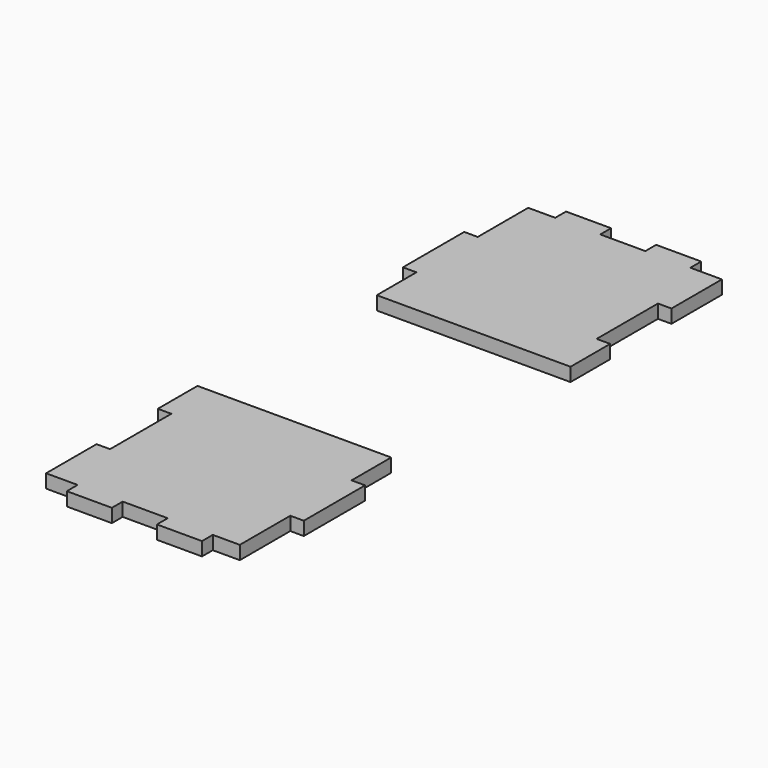
from build123d import *

# Parameters (mm, degrees)
RECTANGLE072_AS_DRAWN_W                 = 8
RECTANGLE072_AS_DRAWN_H                 = 3
EXTRUDE082_DEPTH                        = 3
EXTRUDE082_ONTO_RECTANGLE072_ROLL_ANGLE = 90
RECTANGLE071_AS_DRAWN_W                 = 10
RECTANGLE071_AS_DRAWN_H                 = 3
EXTRUDE081_DEPTH                        = 3
EXTRUDE081_ONTO_RECTANGLE071_ROLL_ANGLE = 90
RECTANGLE070_AS_DRAWN_W                 = 7
RECTANGLE070_AS_DRAWN_H                 = 3
EXTRUDE080_DEPTH                        = 3
EXTRUDE080_ONTO_RECTANGLE070_ROLL_ANGLE = 90
FUSION060_PLACEMENT_ANGLE               = 180
RECTANGLE065_AS_DRAWN_W                 = 8
RECTANGLE065_AS_DRAWN_H                 = 3
EXTRUDE075_DEPTH                        = 3
EXTRUDE075_ONTO_RECTANGLE065_ROLL_ANGLE = 90
RECTANGLE064_AS_DRAWN_W                 = 10
RECTANGLE064_AS_DRAWN_H                 = 3
EXTRUDE074_DEPTH                        = 3
EXTRUDE074_ONTO_RECTANGLE064_ROLL_ANGLE = 90
RECTANGLE063_AS_DRAWN_W                 = 7
RECTANGLE063_AS_DRAWN_H                 = 3
EXTRUDE073_DEPTH                        = 3
EXTRUDE073_ONTO_RECTANGLE063_ROLL_ANGLE = 90
RECTANGLE051_W                          = 17
RECTANGLE051_H                          = 3
EXTRUDE061_DEPTH                        = 3
RECTANGLE052_W                          = 17
RECTANGLE052_H                          = 3
EXTRUDE062_DEPTH                        = 3
RECTANGLE053_W                          = 17
RECTANGLE053_H                          = 3
EXTRUDE063_DEPTH                        = 3
RECTANGLE050_W                          = 17
RECTANGLE050_H                          = 3
EXTRUDE060_DEPTH                        = 3
RECTANGLE055_W                          = 17
RECTANGLE055_H                          = 3
EXTRUDE065_DEPTH                        = 3
RECTANGLE056_W                          = 17
RECTANGLE056_H                          = 3
EXTRUDE066_DEPTH                        = 3
RECTANGLE057_W                          = 17
RECTANGLE057_H                          = 3
EXTRUDE067_DEPTH                        = 3
RECTANGLE054_W                          = 17
RECTANGLE054_H                          = 3
EXTRUDE064_DEPTH                        = 3
BOX019_W                                = 46
BOX019_H                                = 45
BOX019_DEPTH                            = 3
BOX020_W                                = 46
BOX020_H                                = 45
BOX020_DEPTH                            = 3
BOX008_W                                = 46
BOX008_H                                = 45
BOX008_DEPTH                            = 3
BOX009_W                                = 46
BOX009_H                                = 45
BOX009_DEPTH                            = 3


with BuildPart() as extrude082:
    # Rectangle072 as drawn → Extrude082 (new)
    with BuildSketch(Plane.XY):
        with Locations((-4, -1.5)):
            Rectangle(RECTANGLE072_AS_DRAWN_W, RECTANGLE072_AS_DRAWN_H)
    extrude(amount=-EXTRUDE082_DEPTH)


with BuildPart() as extrude082_1:
    # Extrude082 onto Rectangle072 roll: moved
    add(extrude082.part.rotate(Axis((0, 0, 0), (1, 0, 0)), EXTRUDE082_ONTO_RECTANGLE072_ROLL_ANGLE))


with BuildPart() as extrude082_2:
    # Extrude082 onto Rectangle072 placement: moved
    add(extrude082_1.part.moved(Location((-16, -68, 55))))


with BuildPart() as extrude081:
    # Rectangle071 as drawn → Extrude081 (new)
    with BuildSketch(Plane.XY):
        with Locations((-5, -1.5)):
            Rectangle(RECTANGLE071_AS_DRAWN_W, RECTANGLE071_AS_DRAWN_H)
    extrude(amount=-EXTRUDE081_DEPTH)


with BuildPart() as extrude081_1:
    # Extrude081 onto Rectangle071 roll: moved
    add(extrude081.part.rotate(Axis((0, 0, 0), (1, 0, 0)), EXTRUDE081_ONTO_RECTANGLE071_ROLL_ANGLE))


with BuildPart() as extrude081_2:
    # Extrude081 onto Rectangle071 placement: moved
    add(extrude081_1.part.moved(Location((4, -68, 55))))


with BuildPart() as finger_joints_aa002:
    # Rectangle070 as drawn → Extrude080 (new)
    with BuildSketch(Plane.XY):
        with Locations((-3.5, -1.5)):
            Rectangle(RECTANGLE070_AS_DRAWN_W, RECTANGLE070_AS_DRAWN_H)
    extrude(amount=-EXTRUDE080_DEPTH)


with BuildPart() as finger_joints_aa002_1:
    # Extrude080 onto Rectangle070 roll: moved
    add(finger_joints_aa002.part.rotate(Axis((0, 0, 0), (1, 0, 0)), EXTRUDE080_ONTO_RECTANGLE070_ROLL_ANGLE))


with BuildPart() as finger_joints_aa002_2:
    # Extrude080 onto Rectangle070 placement: moved
    add(finger_joints_aa002_1.part.moved(Location((21, -68, 55))))

    # Fusion060: union Extrude082, Extrude081
    add(extrude082_2.part)
    add(extrude081_2.part)


with BuildPart() as finger_joints_aa002_3:
    # Fusion060 placement: moved
    add(finger_joints_aa002_2.part.rotate(Axis((0, 0, 0), (0, 0, 1)), FUSION060_PLACEMENT_ANGLE))


with BuildPart() as extrude075:
    # Rectangle065 as drawn → Extrude075 (new)
    with BuildSketch(Plane.XY):
        with Locations((-4, -1.5)):
            Rectangle(RECTANGLE065_AS_DRAWN_W, RECTANGLE065_AS_DRAWN_H)
    extrude(amount=-EXTRUDE075_DEPTH)


with BuildPart() as extrude075_1:
    # Extrude075 onto Rectangle065 roll: moved
    add(extrude075.part.rotate(Axis((0, 0, 0), (1, 0, 0)), EXTRUDE075_ONTO_RECTANGLE065_ROLL_ANGLE))


with BuildPart() as extrude075_2:
    # Extrude075 onto Rectangle065 placement: moved
    add(extrude075_1.part.moved(Location((-16, -68, 55))))


with BuildPart() as extrude074:
    # Rectangle064 as drawn → Extrude074 (new)
    with BuildSketch(Plane.XY):
        with Locations((-5, -1.5)):
            Rectangle(RECTANGLE064_AS_DRAWN_W, RECTANGLE064_AS_DRAWN_H)
    extrude(amount=-EXTRUDE074_DEPTH)


with BuildPart() as extrude074_1:
    # Extrude074 onto Rectangle064 roll: moved
    add(extrude074.part.rotate(Axis((0, 0, 0), (1, 0, 0)), EXTRUDE074_ONTO_RECTANGLE064_ROLL_ANGLE))


with BuildPart() as extrude074_2:
    # Extrude074 onto Rectangle064 placement: moved
    add(extrude074_1.part.moved(Location((4, -68, 55))))


with BuildPart() as fusion061:
    # Rectangle063 as drawn → Extrude073 (new)
    with BuildSketch(Plane.XY):
        with Locations((-3.5, -1.5)):
            Rectangle(RECTANGLE063_AS_DRAWN_W, RECTANGLE063_AS_DRAWN_H)
    extrude(amount=-EXTRUDE073_DEPTH)


with BuildPart() as fusion061_1:
    # Extrude073 onto Rectangle063 roll: moved
    add(fusion061.part.rotate(Axis((0, 0, 0), (1, 0, 0)), EXTRUDE073_ONTO_RECTANGLE063_ROLL_ANGLE))


with BuildPart() as fusion061_2:
    # Extrude073 onto Rectangle063 placement: moved
    add(fusion061_1.part.moved(Location((21, -68, 55))))

    # Fusion056: union Extrude075, Extrude074
    add(extrude075_2.part)
    add(extrude074_2.part)

    # Fusion061: union Finger joints aa002
    add(finger_joints_aa002_3.part)


with BuildPart() as extrude061:
    # Rectangle051 → Extrude061 (new body)
    with BuildSketch(Plane(origin=(24, -34, 88), x_dir=(0, -1, 0), z_dir=(1, 0, 0))):
        with Locations((-8.5, 1.5)):
            Rectangle(RECTANGLE051_W, RECTANGLE051_H)
    extrude(amount=-EXTRUDE061_DEPTH)


with BuildPart() as extrude062:
    # Rectangle052 → Extrude062 (new body)
    with BuildSketch(Plane(origin=(24, 0, 88), x_dir=(0, -1, 0), z_dir=(1, 0, 0))):
        with Locations((-8.5, 1.5)):
            Rectangle(RECTANGLE052_W, RECTANGLE052_H)
    extrude(amount=-EXTRUDE062_DEPTH)


with BuildPart() as extrude063:
    # Rectangle053 → Extrude063 (new body)
    with BuildSketch(Plane(origin=(24, 34, 88), x_dir=(0, -1, 0), z_dir=(1, 0, 0))):
        with Locations((-8.5, 1.5)):
            Rectangle(RECTANGLE053_W, RECTANGLE053_H)
    extrude(amount=-EXTRUDE063_DEPTH)


with BuildPart() as finger_joints_a_front003:
    # Rectangle050 → Extrude060 (new body)
    with BuildSketch(Plane(origin=(24, -68, 88), x_dir=(0, -1, 0), z_dir=(1, 0, 0))):
        with Locations((-8.5, 1.5)):
            Rectangle(RECTANGLE050_W, RECTANGLE050_H)
    extrude(amount=-EXTRUDE060_DEPTH)

    # Fusion049: union Extrude061, Extrude062, Extrude063
    add(extrude061.part)
    add(extrude062.part)
    add(extrude063.part)


with BuildPart() as finger_joints_a_front003_1:
    # Fusion049 placement: moved
    add(finger_joints_a_front003.part.moved(Location((-1, 0, 0))))


with BuildPart() as extrude065:
    # Rectangle055 → Extrude065 (new body)
    with BuildSketch(Plane(origin=(24, -17, 88), x_dir=(0, -1, 0), z_dir=(1, 0, 0))):
        with Locations((-8.5, 1.5)):
            Rectangle(RECTANGLE055_W, RECTANGLE055_H)
    extrude(amount=-EXTRUDE065_DEPTH)


with BuildPart() as extrude066:
    # Rectangle056 → Extrude066 (new body)
    with BuildSketch(Plane(origin=(24, 17, 88), x_dir=(0, -1, 0), z_dir=(1, 0, 0))):
        with Locations((-8.5, 1.5)):
            Rectangle(RECTANGLE056_W, RECTANGLE056_H)
    extrude(amount=-EXTRUDE066_DEPTH)


with BuildPart() as extrude067:
    # Rectangle057 → Extrude067 (new body)
    with BuildSketch(Plane(origin=(24, 51, 88), x_dir=(0, -1, 0), z_dir=(1, 0, 0))):
        with Locations((-8.5, 1.5)):
            Rectangle(RECTANGLE057_W, RECTANGLE057_H)
    extrude(amount=-EXTRUDE067_DEPTH)


with BuildPart() as finger_joints_b003:
    # Rectangle054 → Extrude064 (new body)
    with BuildSketch(Plane(origin=(24, -51, 88), x_dir=(0, -1, 0), z_dir=(1, 0, 0))):
        with Locations((-8.5, 1.5)):
            Rectangle(RECTANGLE054_W, RECTANGLE054_H)
    extrude(amount=-EXTRUDE064_DEPTH)

    # Fusion050: union Extrude065, Extrude066, Extrude067
    add(extrude065.part)
    add(extrude066.part)
    add(extrude067.part)


with BuildPart() as finger_joints_b003_1:
    # Fusion050 placement: moved
    add(finger_joints_b003.part.moved(Location((-44, 0, 0))))

    # Fusion051: union Finger joints A front003
    add(finger_joints_a_front003_1.part)


with BuildPart() as finger_joints_b003_2:
    # Fusion051 placement: moved
    add(finger_joints_b003_1.part.moved(Location((0, 0, -33))))


with BuildPart() as obj1:
    # Box019 → Box019 (new body)
    with BuildSketch(Plane(origin=(-23, -68, 52), x_dir=(1, 0, 0), z_dir=(0, 0, 1))):
        with Locations((23, 22.5)):
            Rectangle(BOX019_W, BOX019_H)
    extrude(amount=BOX019_DEPTH)


with BuildPart() as common001:
    # Box020 → Box020 (new body)
    with BuildSketch(Plane(origin=(-23, 23, 52), x_dir=(1, 0, 0), z_dir=(0, 0, 1))):
        with Locations((23, 22.5)):
            Rectangle(BOX020_W, BOX020_H)
    extrude(amount=BOX020_DEPTH)

    # Fusion052: union obj1
    add(obj1.part)

    # Common001: intersect Finger joints B003
    add(finger_joints_b003_2.part, mode=Mode.INTERSECT)


with BuildPart() as obj2:
    # Box008 → Box008 (new body)
    with BuildSketch(Plane(origin=(-23, -68, 52), x_dir=(1, 0, 0), z_dir=(0, 0, 1))):
        with Locations((23, 22.5)):
            Rectangle(BOX008_W, BOX008_H)
    extrude(amount=BOX008_DEPTH)


with BuildPart() as carriage_base_with_all_tabs:
    # Box009 → Box009 (new body)
    with BuildSketch(Plane(origin=(-23, 23, 52), x_dir=(1, 0, 0), z_dir=(0, 0, 1))):
        with Locations((23, 22.5)):
            Rectangle(BOX009_W, BOX009_H)
    extrude(amount=BOX009_DEPTH)

    # Fusion047: union obj2
    add(obj2.part)

    # Cut025: cut Common001
    add(common001.part, mode=Mode.SUBTRACT)

    # Cut026: cut Fusion061
    add(fusion061_2.part, mode=Mode.SUBTRACT)


solid = carriage_base_with_all_tabs.part
